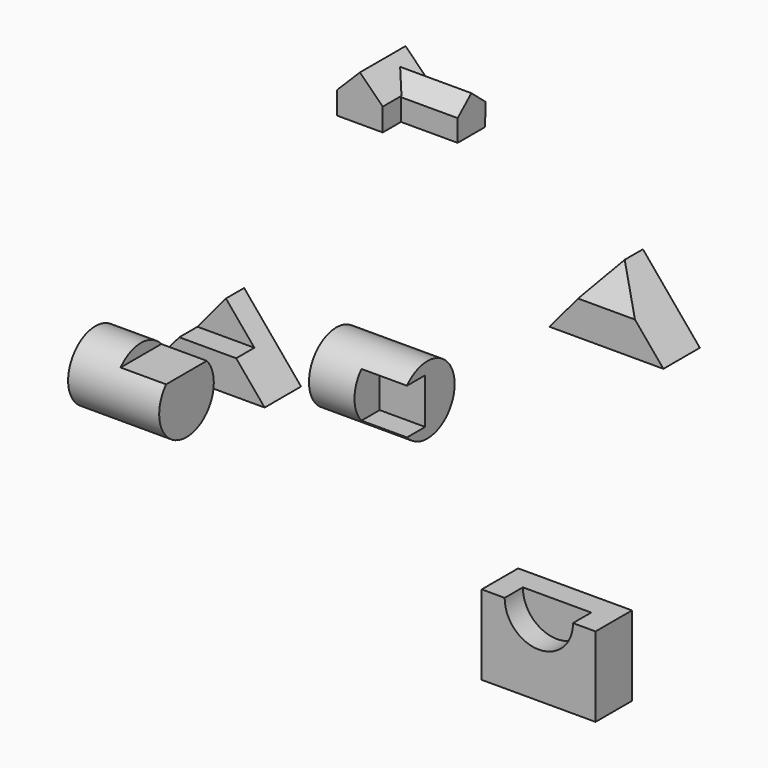
from build123d import *

# Parameters (mm, degrees)
F1_DEPTH  = 101.6
F2_DEPTH  = 50.8
F4_DEPTH  = 101.6
F8_DEPTH  = 63.5
F10_DEPTH = 127
F13_DEPTH = 165.1
F14_R     = 76.2
F15_DEPTH = 203.2
F17_DEPTH = 101.6
F18_R     = 76.2
F19_DEPTH = 203.2
F21_DEPTH = 101.6
F23_DEPTH = 101.6
F25_DEPTH = 50.8


with BuildPart() as f1:
    # F0 (on Front) → F1 (new body)
    with BuildSketch(Plane.XZ):
        Polygon((-164.863427937, -8.9603857159), (-228.363427937, -85.1603857159), (25.636572063, -85.1603857159), (-37.863427937, -8.9603857159), align=None)
    extrude(amount=F1_DEPTH)

    # F0 (on Front) → F2 (join)
    with BuildSketch(Plane.XZ):
        Polygon((-164.863427937, -8.9603857159), (-228.363427937, -85.1603857159), (25.636572063, -85.1603857159), (-37.863427937, -8.9603857159), align=None)
        Polygon((-101.363427937, 67.2396142841), (-164.863427937, -8.9603857159), (-37.863427937, -8.9603857159), align=None)
    extrude(amount=F2_DEPTH)


with BuildPart() as f4:
    # F3 (on Front) → F4 (new body)
    with BuildSketch(Plane.XZ):
        Polygon((707.2532130639, 364.9845177531), (580.2532130639, 212.5845177531), (834.2532130639, 212.5845177531), align=None)
    extrude(amount=-F4_DEPTH)

    # F7 (on 3pt) → F8 (cut, symmetric)
    with BuildSketch(Plane.YZ.offset(707.2532130639)):
        Polygon((0, 364.9845177531), (0, 288.7845177531), (50.8, 364.9845177531), align=None)
    extrude(amount=F8_DEPTH, both=True, mode=Mode.SUBTRACT)


with BuildPart() as f10:
    # F9 (on Front) → F10 (new body)
    with BuildSketch(Plane.XZ):
        Polygon((106.3199856699, 524.0316329509), (106.3199856699, 473.2316329509), (207.9199856699, 473.2316329509), (207.9199856699, 524.0316329509), (157.1199856699, 574.8316329509), align=None)
    extrude(amount=-F10_DEPTH)

    # F12 (on offset) → F13 (join)
    with BuildSketch(Plane.YZ.offset(334.9199856699)):
        Polygon((50.2671275934, 522.3161099392), (50.2671275934, 473.6983532884), (127.0868412608, 473.6983532884), (127.3669932331, 523.3648785495), (88.3671275934, 555.9171515897), align=None)
    extrude(amount=-F13_DEPTH)


with BuildPart() as f15:
    # F14 (on Right) → F15 (new body)
    with BuildSketch(Plane.YZ):
        with Locations((-287.5439747137, 0)):
            Circle(F14_R)
    extrude(amount=-F15_DEPTH)

    # F16 (on face) → F17 (cut)
    with BuildSketch(Plane.YZ):
        with BuildLine():
            ThreePointArc((-230.7478480852, 50.8), (-287.5439747137, 76.2), (-344.3401013422, 50.8))
            Line((-344.3401013422, 50.8), (-230.7478480852, 50.8))
        make_face()
    extrude(amount=-F17_DEPTH, mode=Mode.SUBTRACT)


with BuildPart() as f19:
    # F18 (on Right) → F19 (new body)
    with BuildSketch(Plane.YZ):
        with Locations((384.3129873276, -275.8161425591)):
            Circle(F18_R)
    extrude(amount=-F19_DEPTH)

    # F20 (on face) → F21 (cut)
    with BuildSketch(Plane.YZ):
        with BuildLine():
            Line((378.3168606991, -225.0161425591), (327.5168606991, -225.0161425591))
            ThreePointArc((327.5168606991, -225.0161425591), (308.1129873276, -275.8161425591), (327.5168606991, -326.6161425591))
            Line((327.5168606991, -326.6161425591), (378.3168606991, -326.6161425591))
            Line((378.3168606991, -326.6161425591), (378.3168606991, -225.0161425591))
        make_face()
    extrude(amount=-F21_DEPTH, mode=Mode.SUBTRACT)


with BuildPart() as f23:
    # F22 (on Front) → F23 (new body)
    with BuildSketch(Plane.XZ):
        with BuildLine():
            Line((479.6147877455, -352.4993360819), (428.8147877455, -352.4993360819))
            Line((428.8147877455, -352.4993360819), (428.8147877455, -530.2993360819))
            Line((428.8147877455, -530.2993360819), (682.8147877455, -530.2993360819))
            Line((682.8147877455, -530.2993360819), (682.8147877455, -352.4993360819))
            Line((682.8147877455, -352.4993360819), (632.0147877455, -352.4993360819))
            ThreePointArc((632.0147877455, -352.4993360819), (555.8147877455, -428.6993360819), (479.6147877455, -352.4993360819))
        make_face()
        with BuildLine():
            Line((632.0147877455, -352.4993360819), (479.6147877455, -352.4993360819))
            ThreePointArc((479.6147877455, -352.4993360819), (555.8147877455, -428.6993360819), (632.0147877455, -352.4993360819))
        make_face()
    extrude(amount=-F23_DEPTH)

    # F24 (on face) → F25 (cut)
    with BuildSketch(Plane.XZ):
        with BuildLine():
            ThreePointArc((480.0301629447, -352.4993360819), (555.8530170091, -429.4453813257), (632.4265017671, -353.2462966256))
            ThreePointArc((632.4265017671, -353.2462966256), (632.4255864672, -352.8728118675), (632.4228405896, -352.4993360819))
            Line((632.4228405896, -352.4993360819), (480.0301629447, -352.4993360819))
        make_face()
    extrude(amount=-F25_DEPTH, mode=Mode.SUBTRACT)


solid = Compound([f1.part, f4.part, f10.part, f15.part, f19.part, f23.part])
